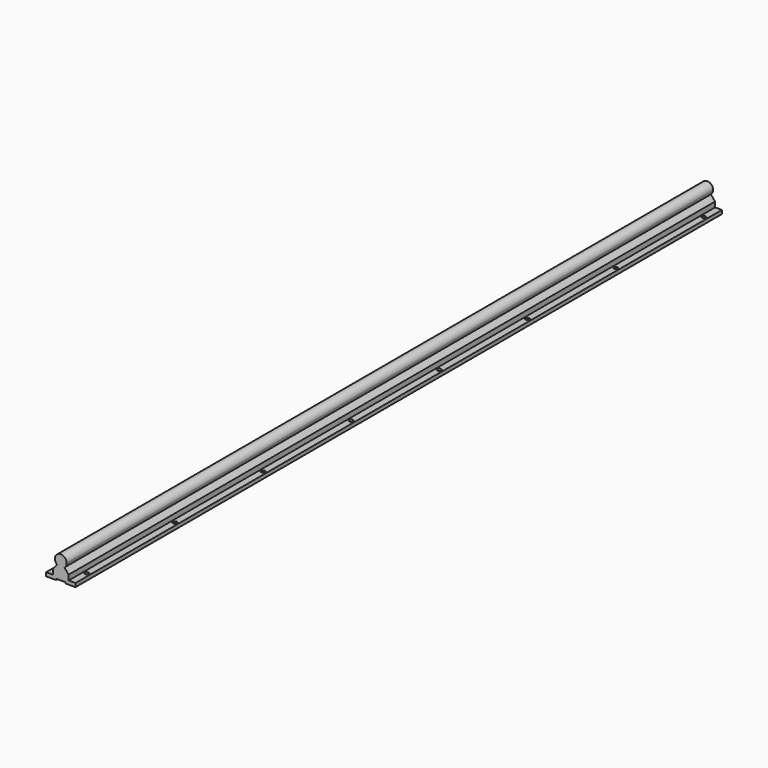
from build123d import *

# Parameters (mm, degrees)
F1_DEPTH = 1100
F2_W     = 12.7
F2_H     = 1150
F3_DEPTH = 1.5875
F4_R     = 2.6162
F5_DEPTH = 33.001


with BuildPart() as f1:
    # F0 (on Front) → F1 (new body)
    with BuildSketch(Plane.XZ):
        with BuildLine():
            ThreePointArc((5, -6.244998), (7.211103, -3.464102), (8, 0))
            ThreePointArc((8, 0), (-3.464102, 7.211103), (-5, -6.244998))
            ThreePointArc((-5, -6.244998), (0, -8), (5, -6.244998))
        make_face()
        with BuildLine():
            ThreePointArc((5, -6.244998), (0, -8), (-5, -6.244998))
            Line((-5, -6.244998), (-10.66812, -13))
            Line((-10.66812, -13), (-10.66812, -20))
            Line((-10.66812, -20), (-20, -20))
            Line((-20, -20), (-20, -25))
            Line((-20, -25), (20, -25))
            Line((20, -25), (20, -20))
            Line((20, -20), (16.541817, -20))
            Line((16.541817, -20), (10.66812, -20))
            Line((10.66812, -20), (10.66812, -13))
            Line((10.66812, -13), (5, -6.244998))
        make_face()
    extrude(amount=F1_DEPTH)

    # F2 (on face) → F3 (cut)
    with BuildSketch(Plane(origin=(0, 0, -25), x_dir=(1, 0, 0), z_dir=(0, 0, -1))):
        with Locations((0, 575)):
            Rectangle(F2_W, F2_H)
    extrude(amount=-F3_DEPTH, mode=Mode.SUBTRACT)

    # F4 (on face) → F5 (cut, through all)
    with BuildSketch(Plane(origin=(0, 0, -25), x_dir=(1, 0, 0), z_dir=(0, 0, -1))):
        with Locations((-15.3391, 1075)):
            Circle(F4_R)
        with Locations((15.3441, 1075)):
            Circle(F4_R)
        with Locations((-15.3391, 925)):
            Circle(F4_R)
        with Locations((15.3441, 925)):
            Circle(F4_R)
        with Locations((-15.3391, 775)):
            Circle(F4_R)
        with Locations((15.3441, 775)):
            Circle(F4_R)
        with Locations((-15.3391, 625)):
            Circle(F4_R)
        with Locations((15.3441, 625)):
            Circle(F4_R)
        with Locations((-15.3391, 475)):
            Circle(F4_R)
        with Locations((15.3441, 475)):
            Circle(F4_R)
        with Locations((-15.3391, 325)):
            Circle(F4_R)
        with Locations((15.3441, 325)):
            Circle(F4_R)
        with Locations((-15.3391, 175)):
            Circle(F4_R)
        with Locations((15.3441, 175)):
            Circle(F4_R)
        with Locations((-15.3391, 25)):
            Circle(F4_R)
        with Locations((15.3441, 25)):
            Circle(F4_R)
    extrude(amount=-F5_DEPTH, mode=Mode.SUBTRACT)


solid = f1.part
